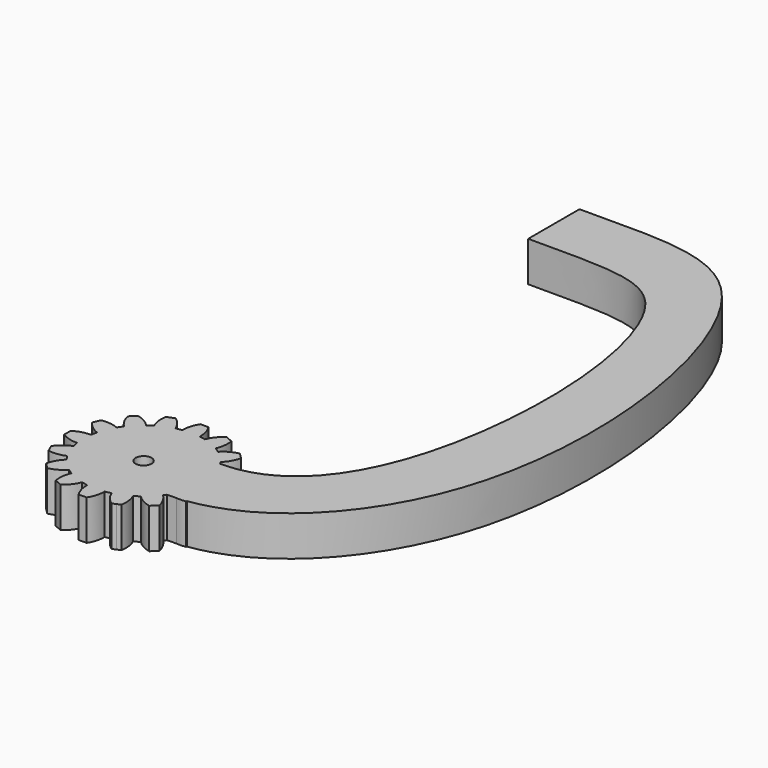
from build123d import *

# Parameters (mm, degrees)
F1_DEPTH = 5
F2_R     = 1
F3_DEPTH = 5.001
F5_DEPTH = 5


with BuildPart() as f1:
    # F0 (on Top) → F1 (new body)
    with BuildSketch(Plane.XY):
        with BuildLine():
            ThreePointArc((7.4206173165, -1.0883191822), (7.4801280027, -0.5456052265), (7.5, 0))
            ThreePointArc((7.5, 0), (7.4801280027, 0.5456052265), (7.4206173165, 1.0883191822))
            ThreePointArc((7.4206173165, 1.0883191822), (7.355889603, 1.4631774151), (7.2722381774, 1.8342714877))
            ThreePointArc((7.2722381774, 1.8342714877), (6.9290964938, 2.8701257427), (6.4392747372, 3.8452231222))
            ThreePointArc((6.4392747372, 3.8452231222), (6.2360220923, 4.1667767476), (6.0167266989, 4.4776109513))
            ThreePointArc((6.0167266989, 4.4776109513), (5.3033008589, 5.3033008589), (4.4776109513, 6.0167266989))
            ThreePointArc((4.4776109513, 6.0167266989), (4.1667767476, 6.2360220923), (3.8452231222, 6.4392747372))
            ThreePointArc((3.8452231222, 6.4392747372), (2.8701257427, 6.9290964938), (1.8342714877, 7.2722381774))
            ThreePointArc((1.8342714877, 7.2722381774), (1.4631774151, 7.355889603), (1.0883191822, 7.4206173165))
            ThreePointArc((1.0883191822, 7.4206173165), (0, 7.5), (-1.0883191822, 7.4206173165))
            ThreePointArc((-1.0883191822, 7.4206173165), (-1.4631774151, 7.355889603), (-1.8342714877, 7.2722381774))
            ThreePointArc((-1.8342714877, 7.2722381774), (-2.8701257427, 6.9290964938), (-3.8452231222, 6.4392747372))
            ThreePointArc((-3.8452231222, 6.4392747372), (-4.1667767476, 6.2360220923), (-4.4776109513, 6.0167266989))
            ThreePointArc((-4.4776109513, 6.0167266989), (-5.3033008589, 5.3033008589), (-6.0167266989, 4.4776109513))
            ThreePointArc((-6.0167266989, 4.4776109513), (-6.2360220923, 4.1667767476), (-6.4392747372, 3.8452231222))
            ThreePointArc((-6.4392747372, 3.8452231222), (-6.9290964938, 2.8701257427), (-7.2722381774, 1.8342714877))
            ThreePointArc((-7.2722381774, 1.8342714877), (-7.355889603, 1.4631774151), (-7.4206173165, 1.0883191822))
            ThreePointArc((-7.4206173165, 1.0883191822), (-7.5, 0), (-7.4206173165, -1.0883191822))
            ThreePointArc((-7.4206173165, -1.0883191822), (-7.355889603, -1.4631774151), (-7.2722381774, -1.8342714877))
            ThreePointArc((-7.2722381774, -1.8342714877), (-6.9290964938, -2.8701257427), (-6.4392747372, -3.8452231222))
            ThreePointArc((-6.4392747372, -3.8452231222), (-6.2360220923, -4.1667767476), (-6.0167266989, -4.4776109513))
            ThreePointArc((-6.0167266989, -4.4776109513), (-5.3033008589, -5.3033008589), (-4.4776109513, -6.0167266989))
            ThreePointArc((-4.4776109513, -6.0167266989), (-4.1667767476, -6.2360220923), (-3.8452231222, -6.4392747372))
            ThreePointArc((-3.8452231222, -6.4392747372), (-2.8701257427, -6.9290964938), (-1.8342714877, -7.2722381774))
            ThreePointArc((-1.8342714877, -7.2722381774), (-1.4631774151, -7.355889603), (-1.0883191822, -7.4206173165))
            ThreePointArc((-1.0883191822, -7.4206173165), (0, -7.5), (1.0883191822, -7.4206173165))
            ThreePointArc((1.0883191822, -7.4206173165), (1.4631774151, -7.355889603), (1.8342714877, -7.2722381774))
            ThreePointArc((1.8342714877, -7.2722381774), (2.8701257427, -6.9290964938), (3.8452231222, -6.4392747372))
            ThreePointArc((3.8452231222, -6.4392747372), (4.1667767476, -6.2360220923), (4.4776109513, -6.0167266989))
            ThreePointArc((4.4776109513, -6.0167266989), (5.3033008589, -5.3033008589), (6.0167266989, -4.4776109513))
            ThreePointArc((6.0167266989, -4.4776109513), (6.2360220923, -4.1667767476), (6.4392747372, -3.8452231222))
            ThreePointArc((6.4392747372, -3.8452231222), (6.9290964938, -2.8701257427), (7.2722381774, -1.8342714877))
            ThreePointArc((7.2722381774, -1.8342714877), (7.355889603, -1.4631774151), (7.4206173165, -1.0883191822))
        make_face()
        with BuildLine():
            ThreePointArc((7.4206173165, 1.0883191822), (7.4801280027, 0.5456052265), (7.5, 0))
            ThreePointArc((7.5, 0), (7.4801280027, -0.5456052265), (7.4206173165, -1.0883191822))
            ThreePointArc((7.4206173165, -1.0883191822), (8.5043518229, -0.9498278009), (9.5, -0.5))
            Line((9.5, -0.5), (9.5, 0))
            Line((9.5, 0), (9.5, 0.5))
            ThreePointArc((9.5, 0.5), (8.5043518229, 0.9498278009), (7.4206173165, 1.0883191822))
        make_face()
        with BuildLine():
            ThreePointArc((6.4392747372, 3.8452231222), (6.9290964938, 2.8701257427), (7.2722381774, 1.8342714877))
            ThreePointArc((7.2722381774, 1.8342714877), (8.2204799494, 2.376948081), (8.968197275, 3.1735528412))
            Line((8.968197275, 3.1735528412), (8.7768555589, 3.6354926075))
            Line((8.7768555589, 3.6354926075), (8.5855138427, 4.0974323737))
            ThreePointArc((8.5855138427, 4.0974323737), (7.4935132234, 4.1320010103), (6.4392747372, 3.8452231222))
        make_face()
        with BuildLine():
            ThreePointArc((8.968197275, -3.1735528412), (8.2204799494, -2.376948081), (7.2722381774, -1.8342714877))
            ThreePointArc((7.2722381774, -1.8342714877), (6.9290964938, -2.8701257427), (6.4392747372, -3.8452231222))
            ThreePointArc((6.4392747372, -3.8452231222), (7.4935132234, -4.1320010103), (8.5855138427, -4.0974323737))
            Line((8.5855138427, -4.0974323737), (8.7768555589, -3.6354926075))
            Line((8.7768555589, -3.6354926075), (8.968197275, -3.1735528412))
        make_face()
        with BuildLine():
            ThreePointArc((4.4776109513, 6.0167266989), (5.3033008589, 5.3033008589), (6.0167266989, 4.4776109513))
            ThreePointArc((6.0167266989, 4.4776109513), (6.6851145225, 5.3418551646), (7.0710678119, 6.3639610307))
            Line((7.0710678119, 6.3639610307), (6.7175144213, 6.7175144213))
            Line((6.7175144213, 6.7175144213), (6.3639610307, 7.0710678119))
            ThreePointArc((6.3639610307, 7.0710678119), (5.3418551646, 6.6851145225), (4.4776109513, 6.0167266989))
        make_face()
        with BuildLine():
            ThreePointArc((7.0710678119, -6.3639610307), (6.6851145225, -5.3418551646), (6.0167266989, -4.4776109513))
            ThreePointArc((6.0167266989, -4.4776109513), (5.3033008589, -5.3033008589), (4.4776109513, -6.0167266989))
            ThreePointArc((4.4776109513, -6.0167266989), (5.3418551646, -6.6851145225), (6.3639610307, -7.0710678119))
            Line((6.3639610307, -7.0710678119), (6.7175144213, -6.7175144213))
            Line((6.7175144213, -6.7175144213), (7.0710678119, -6.3639610307))
        make_face()
        with BuildLine():
            ThreePointArc((1.8342714877, 7.2722381774), (2.8701257427, 6.9290964938), (3.8452231222, 6.4392747372))
            ThreePointArc((3.8452231222, 6.4392747372), (4.1320010103, 7.4935132234), (4.0974323737, 8.5855138427))
            Line((4.0974323737, 8.5855138427), (3.6354926075, 8.7768555589))
            Line((3.6354926075, 8.7768555589), (3.1735528412, 8.968197275))
            ThreePointArc((3.1735528412, 8.968197275), (2.376948081, 8.2204799494), (1.8342714877, 7.2722381774))
        make_face()
        with BuildLine():
            ThreePointArc((4.0974323737, -8.5855138427), (4.1320010103, -7.4935132234), (3.8452231222, -6.4392747372))
            ThreePointArc((3.8452231222, -6.4392747372), (2.8701257427, -6.9290964938), (1.8342714877, -7.2722381774))
            ThreePointArc((1.8342714877, -7.2722381774), (2.376948081, -8.2204799494), (3.1735528412, -8.968197275))
            Line((3.1735528412, -8.968197275), (3.6354926075, -8.7768555589))
            Line((3.6354926075, -8.7768555589), (4.0974323737, -8.5855138427))
        make_face()
        with BuildLine():
            ThreePointArc((-1.0883191822, 7.4206173165), (0, 7.5), (1.0883191822, 7.4206173165))
            ThreePointArc((1.0883191822, 7.4206173165), (0.9498278009, 8.5043518229), (0.5, 9.5))
            Line((0.5, 9.5), (0, 9.5))
            Line((0, 9.5), (-0.5, 9.5))
            ThreePointArc((-0.5, 9.5), (-0.9498278009, 8.5043518229), (-1.0883191822, 7.4206173165))
        make_face()
        with BuildLine():
            ThreePointArc((0.5, -9.5), (0.9498278009, -8.5043518229), (1.0883191822, -7.4206173165))
            ThreePointArc((1.0883191822, -7.4206173165), (0, -7.5), (-1.0883191822, -7.4206173165))
            ThreePointArc((-1.0883191822, -7.4206173165), (-0.9498278009, -8.5043518229), (-0.5, -9.5))
            Line((-0.5, -9.5), (0, -9.5))
            Line((0, -9.5), (0.5, -9.5))
        make_face()
        with BuildLine():
            ThreePointArc((-3.8452231222, 6.4392747372), (-2.8701257427, 6.9290964938), (-1.8342714877, 7.2722381774))
            ThreePointArc((-1.8342714877, 7.2722381774), (-2.376948081, 8.2204799494), (-3.1735528412, 8.968197275))
            Line((-3.1735528412, 8.968197275), (-3.6354926075, 8.7768555589))
            Line((-3.6354926075, 8.7768555589), (-4.0974323737, 8.5855138427))
            ThreePointArc((-4.0974323737, 8.5855138427), (-4.1320010103, 7.4935132234), (-3.8452231222, 6.4392747372))
        make_face()
        with BuildLine():
            ThreePointArc((-3.1735528412, -8.968197275), (-2.376948081, -8.2204799494), (-1.8342714877, -7.2722381774))
            ThreePointArc((-1.8342714877, -7.2722381774), (-2.8701257427, -6.9290964938), (-3.8452231222, -6.4392747372))
            ThreePointArc((-3.8452231222, -6.4392747372), (-4.1320010103, -7.4935132234), (-4.0974323737, -8.5855138427))
            Line((-4.0974323737, -8.5855138427), (-3.6354926075, -8.7768555589))
            Line((-3.6354926075, -8.7768555589), (-3.1735528412, -8.968197275))
        make_face()
        with BuildLine():
            ThreePointArc((-6.0167266989, 4.4776109513), (-5.3033008589, 5.3033008589), (-4.4776109513, 6.0167266989))
            ThreePointArc((-4.4776109513, 6.0167266989), (-5.3418551646, 6.6851145225), (-6.3639610307, 7.0710678119))
            Line((-6.3639610307, 7.0710678119), (-6.7175144213, 6.7175144213))
            Line((-6.7175144213, 6.7175144213), (-7.0710678119, 6.3639610307))
            ThreePointArc((-7.0710678119, 6.3639610307), (-6.6851145225, 5.3418551646), (-6.0167266989, 4.4776109513))
        make_face()
        with BuildLine():
            ThreePointArc((-6.3639610307, -7.0710678119), (-5.3418551646, -6.6851145225), (-4.4776109513, -6.0167266989))
            ThreePointArc((-4.4776109513, -6.0167266989), (-5.3033008589, -5.3033008589), (-6.0167266989, -4.4776109513))
            ThreePointArc((-6.0167266989, -4.4776109513), (-6.6851145225, -5.3418551646), (-7.0710678119, -6.3639610307))
            Line((-7.0710678119, -6.3639610307), (-6.7175144213, -6.7175144213))
            Line((-6.7175144213, -6.7175144213), (-6.3639610307, -7.0710678119))
        make_face()
        with BuildLine():
            ThreePointArc((-7.2722381774, 1.8342714877), (-6.9290964938, 2.8701257427), (-6.4392747372, 3.8452231222))
            ThreePointArc((-6.4392747372, 3.8452231222), (-7.4935132234, 4.1320010103), (-8.5855138427, 4.0974323737))
            Line((-8.5855138427, 4.0974323737), (-8.7768555589, 3.6354926075))
            Line((-8.7768555589, 3.6354926075), (-8.968197275, 3.1735528412))
            ThreePointArc((-8.968197275, 3.1735528412), (-8.2204799494, 2.376948081), (-7.2722381774, 1.8342714877))
        make_face()
        with BuildLine():
            ThreePointArc((-8.5855138427, -4.0974323737), (-7.4935132234, -4.1320010103), (-6.4392747372, -3.8452231222))
            ThreePointArc((-6.4392747372, -3.8452231222), (-6.9290964938, -2.8701257427), (-7.2722381774, -1.8342714877))
            ThreePointArc((-7.2722381774, -1.8342714877), (-8.2204799494, -2.376948081), (-8.968197275, -3.1735528412))
            Line((-8.968197275, -3.1735528412), (-8.7768555589, -3.6354926075))
            Line((-8.7768555589, -3.6354926075), (-8.5855138427, -4.0974323737))
        make_face()
        with BuildLine():
            ThreePointArc((-7.4206173165, -1.0883191822), (-7.5, 0), (-7.4206173165, 1.0883191822))
            ThreePointArc((-7.4206173165, 1.0883191822), (-8.5043518229, 0.9498278009), (-9.5, 0.5))
            Line((-9.5, 0.5), (-9.5, 0))
            Line((-9.5, 0), (-9.5, -0.5))
            ThreePointArc((-9.5, -0.5), (-8.5043518229, -0.9498278009), (-7.4206173165, -1.0883191822))
        make_face()
    extrude(amount=F1_DEPTH)

    # F2 (on face) → F3 (cut, through all)
    with BuildSketch(Plane.XY.offset(5)):
        Circle(F2_R)
    extrude(amount=-F3_DEPTH, mode=Mode.SUBTRACT)

    # F4 (on Top) → F5 (join, through all)
    with BuildSketch(Plane.XY):
        with BuildLine():
            add(Edge.make_bspline(
                [(0, 68), (10, 68), (26.5357793377, 69.6195584207), (35.7921763751, 15.3144879989), (16.2360220923, -4.1667767476), (6.2360220923, -4.1667767476)],
                knots=[0, 0, 0, 0, 0.2773691883, 0.6738677823, 1, 1, 1, 1], degree=3))
            Line((0, 68), (0, 60))
            add(Edge.make_bspline(
                [(0, 60), (10, 60), (20.2377735158, 60.6776605511), (25.2912821546, 26.6920800115), (16.2360220923, 4.1667767476), (6.2360220923, 4.1667767476)],
                knots=[0, 0, 0, 0, 0.28371621, 0.6494672366, 1, 1, 1, 1], degree=3))
            Line((6.2360220923, 4.1667767476), (6.2360220923, -4.1667767476))
        make_face()
    extrude(amount=F5_DEPTH)


solid = f1.part
